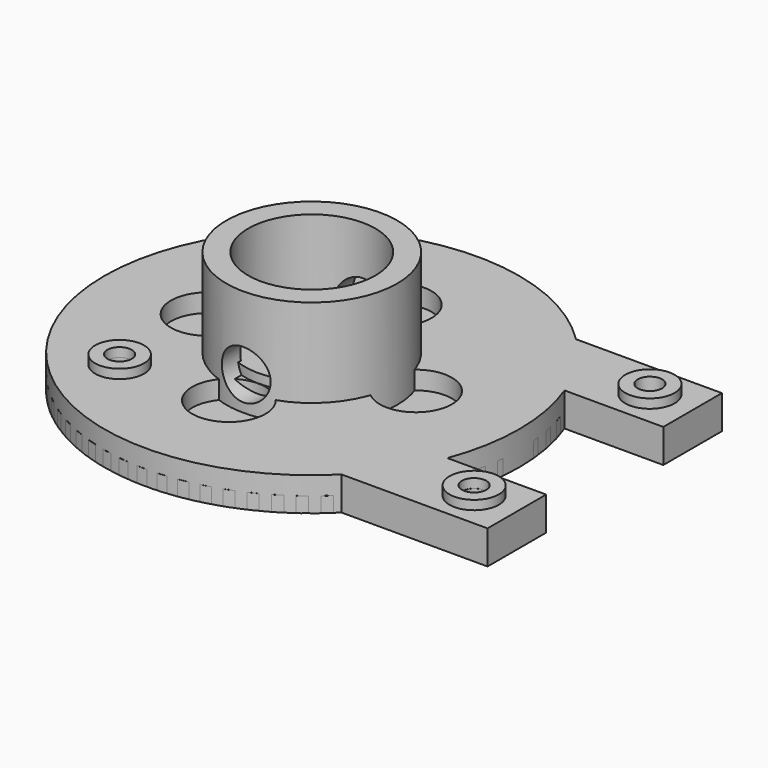
from build123d import *

# Parameters (mm, degrees)
SKETCH001_R     = 2
SKETCH001_R_2   = 1
SKETCH001_R_3   = 2.020755
SKETCH001_R_4   = 5.482687
SKETCH001_R_5   = 3.658876
PAD001_DEPTH    = 1.5
SKETCH003_R     = 17
SKETCH003_R_2   = 2.457315
PAD003_DEPTH    = 1.25
SKETCH005_R     = 5.2186
POCKET_DEPTH    = 2
SKETCH004_R     = 2
PAD004_DEPTH    = 20
SKETCH002_R     = 7
SKETCH002_R_2   = 5.213819
PAD002_DEPTH    = 10
SKETCH_R        = 3.666824
SKETCH_R_2      = 1.466857
SKETCH_R_3      = 1.475235
SKETCH_R_4      = 1.544991
SKETCH_R_5      = 1.032492
SKETCH_R_6      = 1
PAD_DEPTH       = 2.75
SKETCH006_R     = 3.000285
SKETCH006_R_2   = 3.017187
SKETCH006_R_3   = 2.956844
SKETCH006_R_4   = 3
POCKET001_DEPTH = 2


with BuildPart() as standoffspad:
    # Sketch001 → Pad001 (new body)
    with BuildSketch(Plane.XY.offset(2)):
        with Locations((-8.499857, 9)):
            Circle(SKETCH001_R)
        with Locations((-8.499857, 9)):
            Circle(SKETCH001_R_2, mode=Mode.SUBTRACT)
        with Locations((-8.54489, -9)):
            Circle(SKETCH001_R)
        with Locations((-8.54489, -9)):
            Circle(SKETCH001_R_2, mode=Mode.SUBTRACT)
        with Locations((20.500975, 9)):
            Circle(SKETCH001_R_3)
        with Locations((20.500975, 9)):
            Circle(SKETCH001_R_2, mode=Mode.SUBTRACT)
        with Locations((20.500975, -9)):
            Circle(SKETCH001_R_3)
        with Locations((20.500975, -9)):
            Circle(SKETCH001_R_2, mode=Mode.SUBTRACT)
        Circle(SKETCH001_R_4)
        Circle(SKETCH001_R_5, mode=Mode.SUBTRACT)
    extrude(amount=PAD001_DEPTH)


with BuildPart() as finalencoderwheelsurface:
    # Sketch003 → Pad003 (new body)
    with BuildSketch(Plane.XY):
        Circle(SKETCH003_R)
        Circle(SKETCH003_R_2, mode=Mode.SUBTRACT)
    extrude(amount=PAD003_DEPTH)

    # Sketch005 → Pocket (cut)
    with BuildSketch(Plane.XY.offset(1.25)):
        Circle(SKETCH005_R)
    extrude(amount=-POCKET_DEPTH, mode=Mode.SUBTRACT)


with BuildPart() as obj1:
    # Sketch004 → Pad004 (new body)
    with BuildSketch(Plane.XZ.offset(-10)):
        with Locations((0, 4)):
            Circle(SKETCH004_R)
    extrude(amount=PAD004_DEPTH)


with BuildPart() as obj2:
    # Sketch002 → Pad002 (new body)
    with BuildSketch(Plane.XY):
        Circle(SKETCH002_R)
        Circle(SKETCH002_R_2, mode=Mode.SUBTRACT)
    extrude(amount=PAD002_DEPTH)

    # Cut: cut obj1
    add(obj1.part, mode=Mode.SUBTRACT)


with BuildPart() as finalencoderchassismount:
    # Sketch → Pad (new body)
    with BuildSketch(Plane.XY):
        with BuildLine():
            ThreePointArc((12.041595, 12), (-17, 0), (12.041595, -12))
            Line((24, -12), (12.041595, -12))
            Line((24, -6), (24, -12))
            Line((15.905974, -6), (24, -6))
            ThreePointArc((15.905974, -6), (17, 0), (15.905974, 6))
            Line((24, 6), (15.905974, 6))
            Line((24, 12), (24, 6))
            Line((12.041595, 12), (24, 12))
        make_face()
        Circle(SKETCH_R, mode=Mode.SUBTRACT)
        with Locations((0, 8.504541)):
            Circle(SKETCH_R_2, mode=Mode.SUBTRACT)
        with Locations((8.524765, 0)):
            Circle(SKETCH_R_3, mode=Mode.SUBTRACT)
        with Locations((0, -8.544991)):
            Circle(SKETCH_R_4, mode=Mode.SUBTRACT)
        with Locations((-8.544991, 0)):
            Circle(SKETCH_R_4, mode=Mode.SUBTRACT)
        with Locations((-8.522373, 9)):
            Circle(SKETCH_R_5, mode=Mode.SUBTRACT)
        with Locations((-8.54489, -9)):
            Circle(SKETCH_R_6, mode=Mode.SUBTRACT)
        with Locations((20.478456, 9)):
            Circle(SKETCH_R_6, mode=Mode.SUBTRACT)
        with Locations((20.523489, -9)):
            Circle(SKETCH_R_6, mode=Mode.SUBTRACT)
    extrude(amount=PAD_DEPTH)

    # Sketch006 → Pocket001 (cut)
    with BuildSketch(Plane.XY.offset(2.75)):
        with Locations((0, 8.504538)):
            Circle(SKETCH006_R)
        with Locations((-8.523557, 0)):
            Circle(SKETCH006_R_2)
        with Locations((8.52356, 0)):
            Circle(SKETCH006_R_3)
        with Locations((0, -8.493387)):
            Circle(SKETCH006_R_4)
    extrude(amount=-POCKET001_DEPTH, mode=Mode.SUBTRACT)


solid = Compound([standoffspad.part, finalencoderwheelsurface.part, obj2.part, finalencoderchassismount.part])
